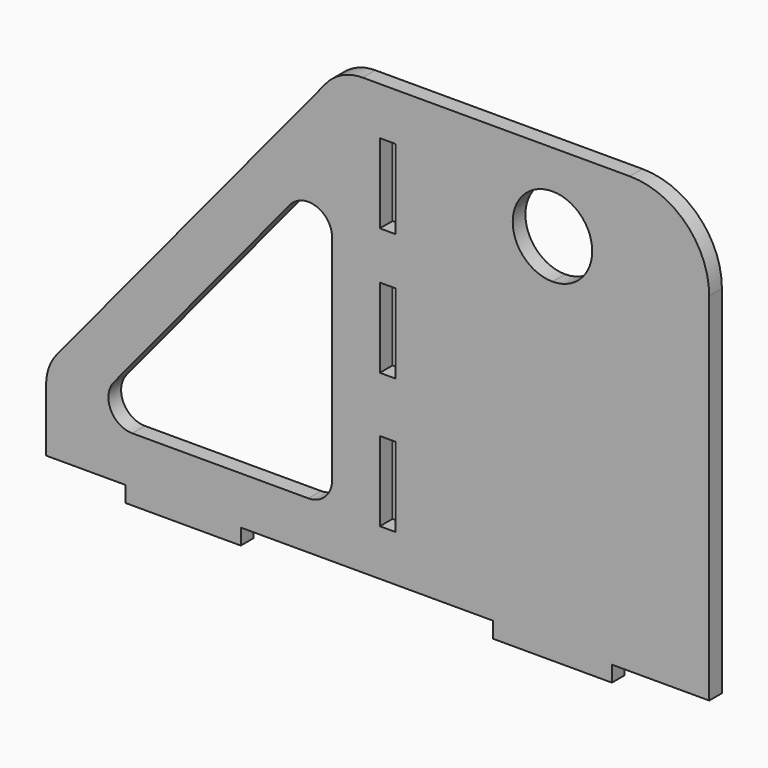
from build123d import *

# Parameters (mm, degrees)
F0_W     = 2
F0_H     = 10
F1_DEPTH = 2


with BuildPart() as f1:
    # F0 (on Front) → F1 (new body)
    with BuildSketch(Plane.XZ):
        with BuildLine():
            Line((0.144111, 33.877513), (-19.580889, 33.877513))
            Line((-19.580889, 33.877513), (-21.580889, 33.877513))
            Line((-21.580889, 33.877513), (-23.753139, 33.877513))
            ThreePointArc((-23.753139, 33.877513), (-26.311046, 33.304953), (-28.380769, 31.696549))
            Line((-28.380769, 31.696549), (-62.208519, -9.293453))
            ThreePointArc((-62.208519, -9.293453), (-63.227382, -11.083423), (-63.580889, -13.112489))
            Line((-63.580889, -13.112489), (-63.580889, -20.95639))
            Line((-63.580889, -20.95639), (-53.580889, -20.95639))
            Line((-53.580889, -20.95639), (-53.580889, -22.95639))
            Line((-53.580889, -22.95639), (-39.080889, -22.95639))
            Line((-39.080889, -22.95639), (-39.080889, -20.95639))
            Line((-39.080889, -20.95639), (-21.580889, -20.95639))
            Line((-21.580889, -20.95639), (-7.330889, -20.95639))
            Line((-7.330889, -20.95639), (-7.330889, -21.122487))
            Line((-7.330889, -21.122487), (-7.330889, -22.95639))
            Line((-7.330889, -22.95639), (0.144111, -22.95639))
            Line((0.144111, -22.95639), (0.144111, 19.04361))
            ThreePointArc((0.144111, 19.04361), (-4.855889, 24.04361), (0.144111, 29.04361))
            Line((0.144111, 29.04361), (0.144111, 33.877513))
        make_face()
        with BuildLine():
            Line((-30.580889, -14.95639), (-52.737117, -14.95639))
            ThreePointArc((-52.737117, -14.95639), (-55.450837, -13.235344), (-55.050932, -10.046872))
            Line((-55.050932, -10.046872), (-32.894704, 16.800431))
            ThreePointArc((-32.894704, 16.800431), (-29.566356, 17.714159), (-27.580889, 14.890912))
            Line((-27.580889, 14.890912), (-27.580889, -11.95639))
            ThreePointArc((-27.580889, -11.95639), (-28.459568, -14.077711), (-30.580889, -14.95639))
        make_face(mode=Mode.SUBTRACT)
        with Locations((-20.580889, -10.122487)):
            Rectangle(F0_W, F0_H, mode=Mode.SUBTRACT)
        with Locations((-20.580889, 6.877513)):
            Rectangle(F0_W, F0_H, mode=Mode.SUBTRACT)
        with Locations((-20.580889, 22.877513)):
            Rectangle(F0_W, F0_H, mode=Mode.SUBTRACT)
        with BuildLine():
            Line((9.869111, 33.877513), (0.144111, 33.877513))
            Line((0.144111, 33.877513), (0.144111, 29.04361))
            ThreePointArc((0.144111, 29.04361), (3.679645, 27.579143), (5.144111, 24.04361))
            ThreePointArc((5.144111, 24.04361), (3.679645, 20.508076), (0.144111, 19.04361))
            Line((0.144111, 19.04361), (0.144111, -22.95639))
            Line((0.144111, -22.95639), (7.619111, -22.95639))
            Line((7.619111, -22.95639), (7.619111, -21.122487))
            Line((7.619111, -21.122487), (7.619111, -20.95639))
            Line((7.619111, -20.95639), (19.869111, -20.95639))
            Line((19.869111, -20.95639), (19.869111, -15.122487))
            Line((19.869111, -15.122487), (19.869111, -5.122487))
            Line((19.869111, -5.122487), (19.869111, 1.877513))
            Line((19.869111, 1.877513), (19.869111, 11.877513))
            Line((19.869111, 11.877513), (19.869111, 17.877513))
            Line((19.869111, 17.877513), (19.869111, 23.877513))
            ThreePointArc((19.869111, 23.877513), (16.940179, 30.948581), (9.869111, 33.877513))
        make_face()
    extrude(amount=F1_DEPTH)


solid = f1.part
